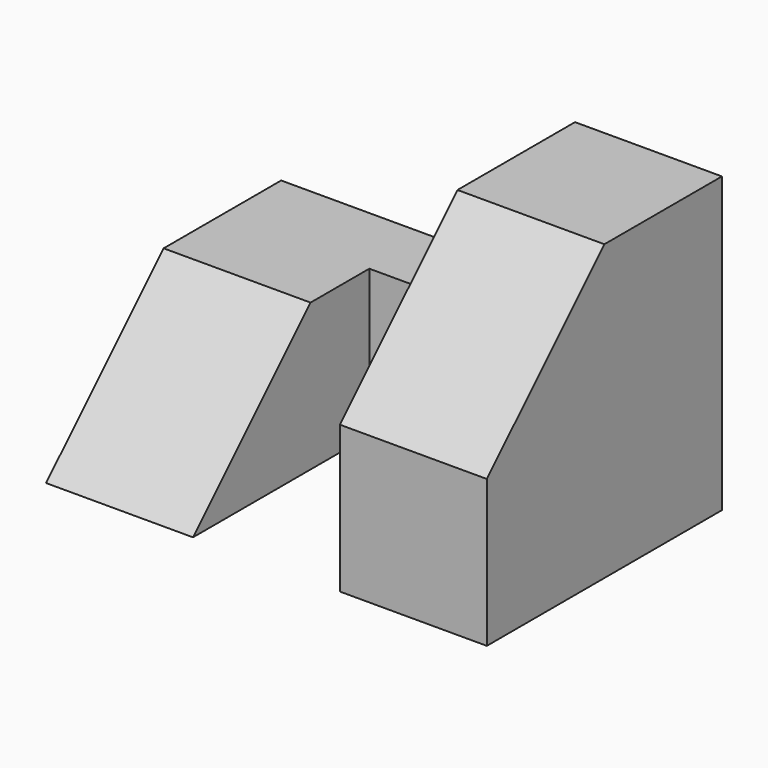
from build123d import *

# Parameters (mm, degrees)
F1_DEPTH = 12.7
F2_W     = 12.7
F2_H     = 12.7
F3_DEPTH = 6.35
F4_W     = 12.7
F4_H     = 12.7
F5_DEPTH = 25.4
F7_DEPTH = 12.7


with BuildPart() as f1:
    # F0 (on Right) → F1 (new body)
    with BuildSketch(Plane.YZ):
        Polygon((0, 12.7), (0, 0), (25.4, 0), (25.4, 25.4), (12.7, 25.4), align=None)
    extrude(amount=F1_DEPTH)

    # F2 (on face) → F3 (join)
    with BuildSketch(Plane(origin=(0, 25.4, 0), x_dir=(-1, 0, 0), z_dir=(0, 1, 0))):
        with Locations((6.35, 6.35)):
            Rectangle(F2_W, F2_H)
    extrude(amount=-F3_DEPTH)

    # F4 (on face) → F5 (join)
    with BuildSketch(Plane(origin=(0, 25.4, 0), x_dir=(-1, 0, 0), z_dir=(0, 1, 0))):
        with Locations((19.05, 6.35)):
            Rectangle(F4_W, F4_H)
    extrude(amount=-F5_DEPTH)

    # F6 (on face) → F7 (cut)
    with BuildSketch(Plane(origin=(-25.4, 0, 0), x_dir=(0, -1, 0), z_dir=(-1, 0, 0))):
        Polygon((-12.7, 12.7), (0, 0), (0, 12.7), align=None)
    extrude(amount=-F7_DEPTH, mode=Mode.SUBTRACT)


solid = f1.part
